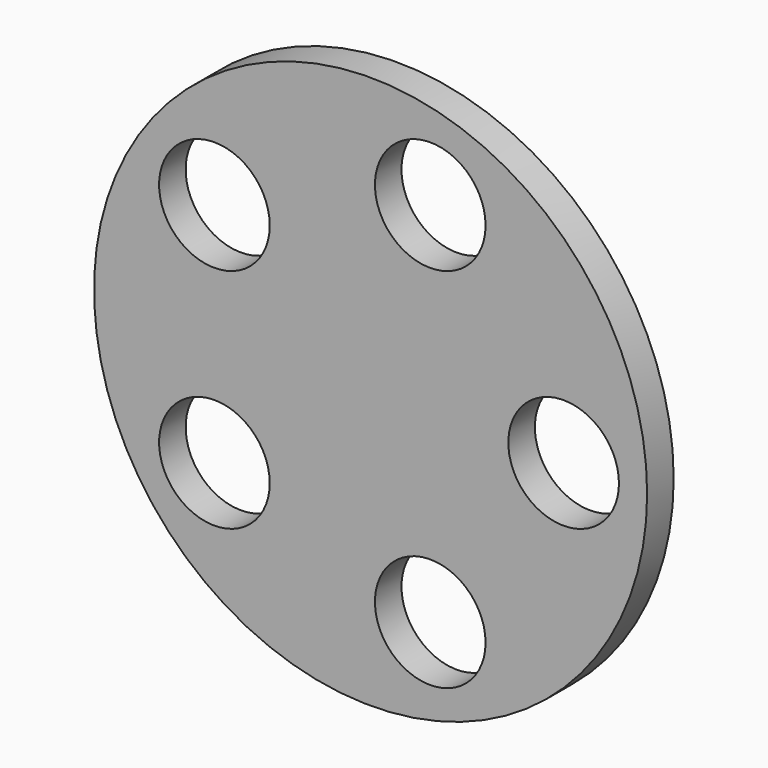
from build123d import *

# Parameters (mm, degrees)
F0_R     = 63.5
F1_DEPTH = 3.81
F2_R     = 12.7
F3_DEPTH = 7.621


with BuildPart() as f1:
    # F0 (on Front) → F1 (new body, symmetric)
    with BuildSketch(Plane.XZ):
        Circle(F0_R)
    extrude(amount=F1_DEPTH, both=True)

    # F2 (on face) → F3 (cut, through all)
    with BuildSketch(Plane.XZ.offset(3.81)):
        with Locations((-35.85806, 26.052406)):
            Circle(F2_R)
        with Locations((13.69656, 42.153678)):
            Circle(F2_R)
        with Locations((44.323, 0)):
            Circle(F2_R)
        with Locations((13.69656, -42.153678)):
            Circle(F2_R)
        with Locations((-35.85806, -26.052406)):
            Circle(F2_R)
    extrude(amount=-F3_DEPTH, mode=Mode.SUBTRACT)


solid = f1.part
